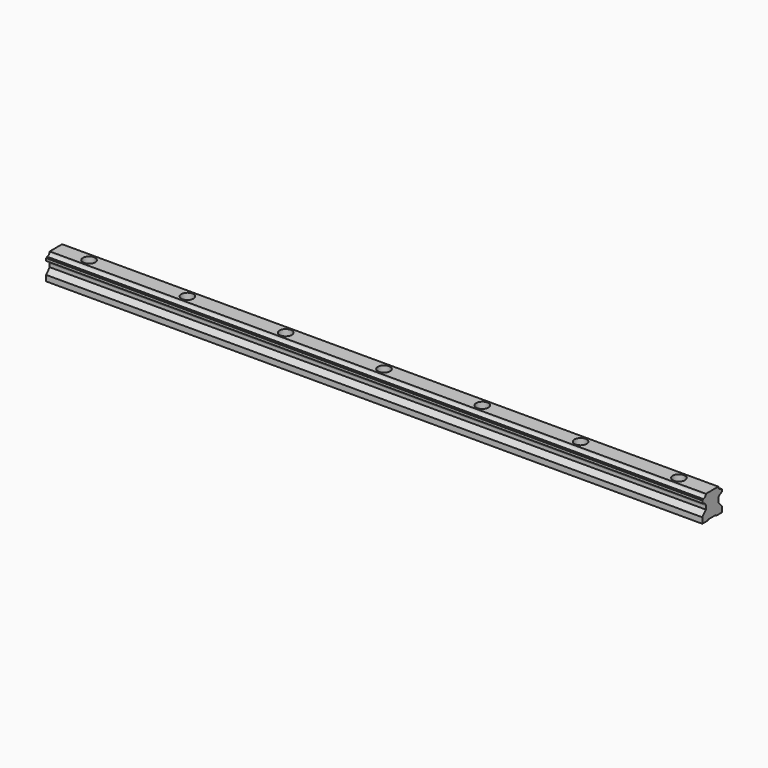
from build123d import *

# Parameters (mm, degrees)
F0_W           = 15
F0_H           = 15
F1_DEPTH       = 200.25
F3_DEPTH       = 400.5
F5_D           = 4.5
F5_CBORE_D     = 7.5
F5_CBORE_DEPTH = 5.3


with BuildPart() as f1:
    # F0 (on Right) → F1 (new body, symmetric)
    with BuildSketch(Plane.YZ):
        Rectangle(F0_W, F0_H)
    extrude(amount=F1_DEPTH, both=True)

    # F2 (on face) → F3 (intersect, through all)
    with BuildSketch(Plane.YZ.offset(200.25)):
        with BuildLine():
            Line((4.75, 7.5), (0, 7.5))
            Line((0, 7.5), (-4.75, 7.5))
            ThreePointArc((-4.75, 7.5), (-5.335786, 6.085786), (-6.75, 5.5))
            ThreePointArc((-6.75, 5.5), (-7.049306, 5.136459), (-7.5, 5))
            Line((-7.5, 5), (-7.5, 3.5))
            ThreePointArc((-7.5, 3.5), (-7.049306, 3.363541), (-6.75, 3))
            ThreePointArc((-6.75, 3), (-5.335786, 2.414214), (-4.75, 1))
            Line((-4.75, 1), (-4.75, -1))
            Line((-4.75, -1), (-7.5, -4))
            Line((-7.5, -4), (-7.5, -7.5))
            Line((-7.5, -7.5), (-3, -7.5))
            Line((-3, -7.5), (-3, -7))
            Line((-3, -7), (0, -7))
            Line((0, -7), (3, -7))
            Line((3, -7), (3, -7.5))
            Line((3, -7.5), (7.5, -7.5))
            Line((7.5, -7.5), (7.5, -4))
            Line((7.5, -4), (4.75, -1))
            Line((4.75, -1), (4.75, 1))
            ThreePointArc((4.75, 1), (5.335786, 2.414214), (6.75, 3))
            ThreePointArc((6.75, 3), (7.049306, 3.363541), (7.5, 3.5))
            Line((7.5, 3.5), (7.5, 5))
            ThreePointArc((7.5, 5), (7.049306, 5.136459), (6.75, 5.5))
            ThreePointArc((6.75, 5.5), (5.335786, 6.085786), (4.75, 7.5))
        make_face()
    extrude(amount=-F3_DEPTH, mode=Mode.INTERSECT)

    # F5 (through all)
    with Locations(Plane.XY.offset(7.5)):
        with Locations((-180, 0), (-120, 0), (-60, 0), (0, 0), (60, 0), (120, 0), (180, 0)):
            CounterBoreHole(F5_D / 2, F5_CBORE_D / 2, F5_CBORE_DEPTH)


solid = f1.part
